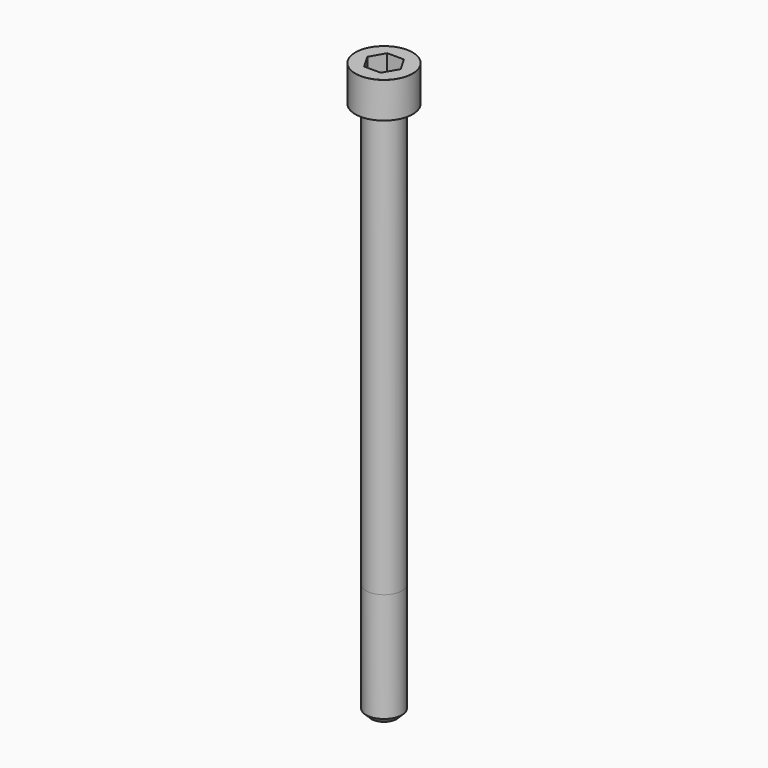
from build123d import *

# Parameters (mm, degrees)
POCKET_DEPTH = 8.07


with BuildPart() as part:
    # Sketch → Revolve (revolve)
    with BuildSketch(Plane.YZ):
        with BuildLine():
            Line((4.999, 0), (8, 0))
            Line((8, 0), (8, 9.97229))
            ThreePointArc((8, 9.97229), (7.991884, 9.991884), (7.97229, 10))
            Line((7.97229, 10), (0, 10))
            Line((0, -150), (0, 10))
            Line((3.5, -150), (0, -150))
            Line((5, -148.5), (3.5, -150))
            Line((5, -118), (5, -148.5))
            Line((4.999, 0), (5, -118))
        make_face()
    revolve(axis=Axis((0, 0, 0), (0, 0, 1)))

    # Sketch001 → Pocket (cut)
    with BuildSketch(Plane.XY.offset(10)):
        Polygon((4.659217, 0), (2.329608, 4.035), (-2.329608, 4.035), (-4.659217, 0), (-2.329608, -4.035), (2.329608, -4.035), align=None)
    extrude(amount=-POCKET_DEPTH, mode=Mode.SUBTRACT)


solid = part.part
